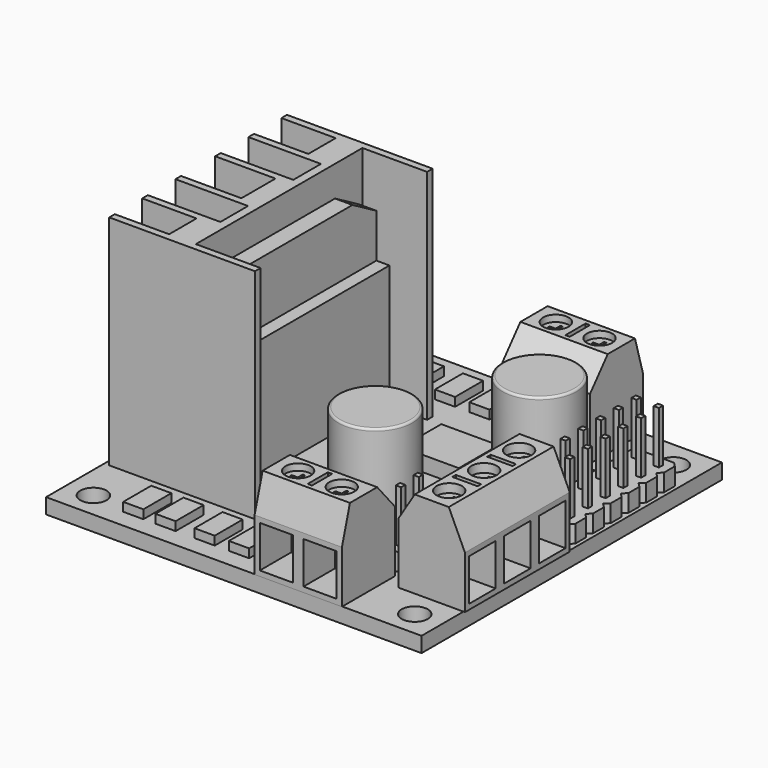
from build123d import *

# Parameters (mm, degrees)
SKETCH_W               = 43
SKETCH_H               = 43
PAD_DEPTH              = 1.75
SKETCH001_R            = 1.5
POCKET_DEPTH           = 1.75
SKETCH002_R            = 4.24
PAD001_DEPTH           = 11
PAD002_DEPTH           = 0.5
SKETCH004_W            = 2.31
SKETCH004_H            = 4.01
PAD003_DEPTH           = 1
SKETCH005_W            = 6.55
SKETCH005_H            = 5.68
PAD004_DEPTH           = 1.75
SKETCH006_W            = 2.21
SKETCH006_H            = 1.22
SKETCH006_W_2          = 1.43
SKETCH006_H_2          = 1.9
PAD005_DEPTH           = 0.5
PAD006_DEPTH           = 2
SKETCH008_W            = 0.6
SKETCH008_H            = 0.6
PAD007_DEPTH           = 6
LINEARPATTERN_COUNT    = 6
LINEARPATTERN_PITCH    = 2.54
PAD008_DEPTH           = 2
SKETCH010_W            = 0.6
SKETCH010_H            = 0.6
PAD009_DEPTH           = 6
SKETCH011_W            = 10
SKETCH011_H            = 7.6
PAD010_DEPTH           = 10
SKETCH012_R            = 1.45
SKETCH012_W            = 0.5
SKETCH012_H            = 2.9
POCKET001_DEPTH        = 0.75
POCKET002_DEPTH        = 10
SKETCH014_W            = 3.8
SKETCH014_H            = 4.8
POCKET003_DEPTH        = 4.5
POCKET004_DEPTH        = 0.25
SKETCH016_W            = 7.6
SKETCH016_H            = 15
PAD011_DEPTH           = 10
SKETCH017_R            = 1.45
SKETCH017_W            = 2.9
SKETCH017_H            = 0.5
POCKET005_DEPTH        = 1
POCKET006_DEPTH        = 0.25
LINEARPATTERN001_COUNT = 3
LINEARPATTERN001_PITCH = 5
POCKET007_DEPTH        = 15
SKETCH020_W            = 3.8
SKETCH020_H            = 4.8
POCKET008_DEPTH        = 4.5
FILLET_R               = 0.25
PAD012_DEPTH           = 25
SKETCH022_W            = 22.84
SKETCH022_H            = 13.75
PAD013_DEPTH           = 3.5
PAD014_DEPTH           = 2


with BuildPart() as part:
    # Sketch → Pad (new body)
    with BuildSketch(Plane.XY):
        Rectangle(SKETCH_W, SKETCH_H)
    extrude(amount=PAD_DEPTH)

    # Sketch001 (on Face6 of Pad) → Pocket (cut)
    with BuildSketch(Plane.XY.offset(1.75)):
        with Locations((-18.4, 18.42)):
            Circle(SKETCH001_R)
        with Locations((-18.4, -18.6)):
            Circle(SKETCH001_R)
        with Locations((18.4, -18.6)):
            Circle(SKETCH001_R)
        with Locations((18.4, 18.42)):
            Circle(SKETCH001_R)
    extrude(amount=-POCKET_DEPTH, mode=Mode.SUBTRACT)

    # Sketch002 (on Face5 of Pocket) → Pad001 (join)
    with BuildSketch(Plane.XY.offset(1.75)):
        with Locations((3.77, -5.96)):
            Circle(SKETCH002_R)
        with Locations((11.44, 7.96)):
            Circle(SKETCH002_R)
    extrude(amount=PAD001_DEPTH)

    # Sketch003 (on Face5 of Pad001) → Pad002 (join)
    with BuildSketch(Plane.XY.offset(1.75)):
        Polygon((-0.72, -1.5), (8.26, -1.5), (8.26, -8.46), (6.31, -10.41), (1.23, -10.41), (-0.72, -8.46), align=None)
        Polygon((6.95, 12.45), (15.93, 12.45), (15.93, 5.49), (13.98, 3.54), (8.9, 3.54), (6.95, 5.49), align=None)
    extrude(amount=PAD002_DEPTH)

    # Sketch004 (on Face5 of Pad002) → Pad003 (join)
    with BuildSketch(Plane.XY.offset(1.75)):
        with Locations((-13.185, 17.005)):
            Rectangle(SKETCH004_W, SKETCH004_H)
        with Locations((-9.495, 17.005)):
            Rectangle(SKETCH004_W, SKETCH004_H)
        with Locations((-5.015, 17.005)):
            Rectangle(SKETCH004_W, SKETCH004_H)
        with Locations((-1.075, 17.005)):
            Rectangle(SKETCH004_W, SKETCH004_H)
        with Locations((-13.185, -17.405)):
            Rectangle(SKETCH004_W, SKETCH004_H)
        with Locations((-9.495, -17.405)):
            Rectangle(SKETCH004_W, SKETCH004_H)
        with Locations((-5.015, -17.405)):
            Rectangle(SKETCH004_W, SKETCH004_H)
        with Locations((-1.075, -17.405)):
            Rectangle(SKETCH004_W, SKETCH004_H)
    extrude(amount=PAD003_DEPTH)

    # Sketch005 (on Face5 of Pad003) → Pad004 (join)
    with BuildSketch(Plane.XY.offset(1.75)):
        with Locations((2.645, 6.15)):
            Rectangle(SKETCH005_W, SKETCH005_H)
    extrude(amount=PAD004_DEPTH)

    # Sketch006 (on Face5 of Pad004) → Pad005 (join)
    with BuildSketch(Plane.XY.offset(1.75)):
        with Locations((11.455, -0.5)):
            Rectangle(SKETCH006_W, SKETCH006_H)
        with Locations((10.875, -4.59)):
            Rectangle(SKETCH006_W_2, SKETCH006_H_2)
    extrude(amount=PAD005_DEPTH)

    # Sketch007 (on Face5 of Pad005) → Pad006 (join)
    with BuildSketch(Plane.XY.offset(1.75)):
        Polygon((16, 15.29), (16, 13.73), (16.49, 13.24), (20.59, 13.24), (21.08, 13.73), (21.08, 15.29), (20.59, 15.78), (16.49, 15.78), align=None)
    pad006 = extrude(amount=PAD006_DEPTH)

    # Sketch008 (on Face88 of Pad006) → Pad007 (join)
    with BuildSketch(Plane.XY.offset(3.75)):
        with Locations((17.27, 14.51)):
            Rectangle(SKETCH008_W, SKETCH008_H)
        with Locations((19.81, 14.51)):
            Rectangle(SKETCH008_W, SKETCH008_H)
    pad007 = extrude(amount=PAD007_DEPTH)

    # LinearPattern: Pad007, Pad006 ×6
    with Locations(*[(0, -i * LINEARPATTERN_PITCH, 0) for i in range(1, LINEARPATTERN_COUNT)]):
        add(pad007)
        add(pad006)

    # Sketch009 (on Face5 of LinearPattern) → Pad008 (join)
    with BuildSketch(Plane.XY.offset(1.75)):
        Polygon((10.13, -8.56), (10.13, -12.66), (10.62, -13.15), (12.18, -13.15), (12.67, -12.66), (12.67, -8.56), (12.18, -8.07), (10.62, -8.07), align=None)
    extrude(amount=PAD008_DEPTH)

    # Sketch010 (on Face117 of Pad008) → Pad009 (join)
    with BuildSketch(Plane.XY.offset(3.75)):
        with Locations((11.4, -11.88)):
            Rectangle(SKETCH010_W, SKETCH010_H)
        with Locations((11.4, -9.34)):
            Rectangle(SKETCH010_W, SKETCH010_H)
    extrude(amount=PAD009_DEPTH)

    # Sketch011 (on Face5 of Pad009) → Pad010 (join)
    with BuildSketch(Plane.XY.offset(1.75)):
        with Locations((7.42, -17.75)):
            Rectangle(SKETCH011_W, SKETCH011_H)
    pad010 = extrude(amount=PAD010_DEPTH)

    # Sketch012 (on Face118 of Pad010) → Pocket001 (cut)
    with BuildSketch(Plane.XY.offset(11.75)):
        with Locations((4.92, -18.45)):
            Circle(SKETCH012_R)
        with Locations((9.92, -18.45)):
            Circle(SKETCH012_R)
        with Locations((7.42, -18.45)):
            Rectangle(SKETCH012_W, SKETCH012_H)
    pocket001 = extrude(amount=-POCKET001_DEPTH, mode=Mode.SUBTRACT)

    # Sketch013 (on Face12 of Pocket001) → Pocket002 (cut)
    with BuildSketch(Plane.YZ.offset(12.42)):
        Polygon((-20.4, 11.75), (-21.55, 11.75), (-21.55, 7.75), align=None)
        Polygon((-13.95, 11.75), (-16.5, 11.75), (-13.95, 8.75), align=None)
    pocket002 = extrude(amount=-POCKET002_DEPTH, mode=Mode.SUBTRACT)

    # Sketch014 (on Face117 of Pocket002) → Pocket003 (cut)
    with BuildSketch(Plane.XZ.offset(21.55)):
        with Locations((4.92, 4.75)):
            Rectangle(SKETCH014_W, SKETCH014_H)
        with Locations((9.92, 4.75)):
            Rectangle(SKETCH014_W, SKETCH014_H)
    pocket003 = extrude(amount=-POCKET003_DEPTH, mode=Mode.SUBTRACT)

    # Sketch015 (on Face212 of Pocket003) → Pocket004 (cut)
    with BuildSketch(Plane.XY.offset(11)):
        Polygon((4.795, -17.625), (4.795, -18.325), (4.095, -18.325), (4.095, -18.575), (4.795, -18.575), (4.795, -19.275), (5.045, -19.275), (5.045, -18.575), (5.745, -18.575), (5.745, -18.325), (5.045, -18.325), (5.045, -17.625), align=None)
        Polygon((9.795, -17.625), (9.795, -18.325), (9.095, -18.325), (9.095, -18.575), (9.795, -18.575), (9.795, -19.275), (10.045, -19.275), (10.045, -18.575), (10.745, -18.575), (10.745, -18.325), (10.045, -18.325), (10.045, -17.625), align=None)
    pocket004 = extrude(amount=-POCKET004_DEPTH, mode=Mode.SUBTRACT)

    # Mirrored: Pad010 across XZ
    add(pad010.mirror(Plane.XZ))

    # Mirrored001: Pocket001 across XZ
    add(pocket001.mirror(Plane.XZ), mode=Mode.SUBTRACT)

    # Mirrored002: Pocket002 across XZ
    add(pocket002.mirror(Plane.XZ), mode=Mode.SUBTRACT)

    # Mirrored003: Pocket003 across XZ
    add(pocket003.mirror(Plane.XZ), mode=Mode.SUBTRACT)

    # Mirrored004: Pocket004 across XZ
    add(pocket004.mirror(Plane.XZ), mode=Mode.SUBTRACT)

    # Sketch016 (on Face5 of Mirrored004) → Pad011 (join)
    with BuildSketch(Plane.XY.offset(1.75)):
        with Locations((17.87, -8)):
            Rectangle(SKETCH016_W, SKETCH016_H)
    extrude(amount=PAD011_DEPTH)

    # Sketch017 (on Face134 of Pad011) → Pocket005 (cut)
    with BuildSketch(Plane.XY.offset(11.75)):
        with Locations((17.87, -13)):
            Circle(SKETCH017_R)
        with Locations((17.87, -8)):
            Circle(SKETCH017_R)
        with Locations((17.87, -3)):
            Circle(SKETCH017_R)
        with Locations((17.87, -10.5)):
            Rectangle(SKETCH017_W, SKETCH017_H)
        with Locations((17.87, -5.5)):
            Rectangle(SKETCH017_W, SKETCH017_H)
    extrude(amount=-POCKET005_DEPTH, mode=Mode.SUBTRACT)

    # Sketch018 (on Face257 of Pocket005) → Pocket006 (cut)
    with BuildSketch(Plane.XY.offset(10.75)):
        Polygon((17.045, -12.875), (17.745, -12.875), (17.745, -12.175), (17.995, -12.175003), (17.995, -12.875), (18.694997, -12.875), (18.694997, -13.125), (17.995, -13.125), (17.995, -13.824997), (17.745, -13.824997), (17.745, -13.125), (17.045, -13.125), align=None)
    pocket006 = extrude(amount=-POCKET006_DEPTH, mode=Mode.SUBTRACT)

    # LinearPattern001: Pocket006 ×3
    with Locations(*[(0, i * LINEARPATTERN001_PITCH, 0) for i in range(1, LINEARPATTERN001_COUNT)]):
        add(pocket006, mode=Mode.SUBTRACT)

    # Sketch019 (on Face21 of LinearPattern001) → Pocket007 (cut)
    with BuildSketch(Plane.XZ.offset(15.5)):
        Polygon((15.92, 11.75), (14.07, 11.75), (14.07, 8.75), align=None)
        Polygon((19.82, 11.75), (21.67, 7.75), (21.67, 11.75), align=None)
    extrude(amount=-POCKET007_DEPTH, mode=Mode.SUBTRACT)

    # Sketch020 (on Face136 of Pocket007) → Pocket008 (cut)
    with BuildSketch(Plane.YZ.offset(21.67)):
        with Locations((-13, 4.75)):
            Rectangle(SKETCH020_W, SKETCH020_H)
        with Locations((-8, 4.75)):
            Rectangle(SKETCH020_W, SKETCH020_H)
        with Locations((-3, 4.75)):
            Rectangle(SKETCH020_W, SKETCH020_H)
    extrude(amount=-POCKET008_DEPTH, mode=Mode.SUBTRACT)

    # Fillet
    fillet_edges = [part.edges().sort_by_distance(p)[0] for p in [
        (-0.47, -5.96, 12.75),
        (7.2, 7.96, 12.75),
    ]]
    fillet(fillet_edges, radius=FILLET_R)

    # Sketch021 (on Face11 of Fillet) → Pad012 (join)
    with BuildSketch(Plane.XY.offset(1.75)):
        Polygon((-20.93, 12.27), (-4.24, 12.27), (-4.24, 11.47), (-11.65, 11.47), (-11.65, -12.37), (-4.24, -12.37), (-4.24, -13.17), (-20.93, -13.17), (-20.93, -12.37), (-14.71, -12.37), (-14.71, -8.45), (-20.93, -8.45), (-20.93, -7.65), (-12.62, -7.65), (-12.62, -3.69), (-20.93, -3.69), (-20.93, -2.89), (-14.02, -2.89), (-14.02, 1.99), (-20.93, 1.99), (-20.93, 2.79), (-12.62, 2.79), (-12.62, 6.75), (-20.93, 6.75), (-20.93, 7.55), (-14.71, 7.55), (-14.71, 11.47), (-20.93, 11.47), align=None)
    extrude(amount=PAD012_DEPTH)

    # Sketch022 (on Face66 of Pad012) → Pad013 (join)
    with BuildSketch(Plane.YZ.offset(-11.65)):
        with Locations((-0.45, 9.375)):
            Rectangle(SKETCH022_W, SKETCH022_H)
    extrude(amount=PAD013_DEPTH)

    # Sketch023 (on Face66 of Pad013) → Pad014 (join)
    with BuildSketch(Plane.YZ.offset(-11.65)):
        Polygon((-11.87, 16.25), (-11.87, 21.275462), (-8.45, 23.25), (7.55, 23.25), (10.97, 21.275462), (10.97, 16.25), align=None)
    extrude(amount=PAD014_DEPTH)


solid = part.part
